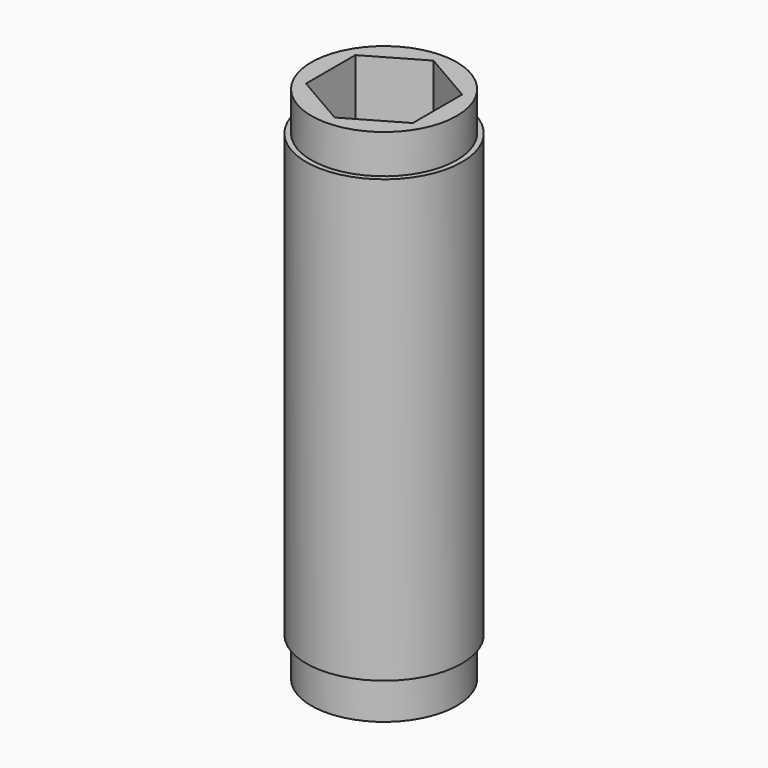
from build123d import *

# Parameters (mm, degrees)
F1_DEPTH = 400
F2_R     = 91.560729
F2_R_2   = 60
F3_DEPTH = 400.001
F4_R     = 159.326425
F4_R_2   = 56
F5_DEPTH = 30
F6_R     = 72.9435
F6_R_2   = 56
F7_DEPTH = 30


with BuildPart() as f1:
    # F0 (on Top) → F1 (new body)
    with BuildSketch(Plane.XY):
        Polygon((62.5, -36.084392), (62.5, 36.084392), (0, 72.168784), (-62.5, 36.084392), (-62.5, -36.084392), (0, -72.168784), align=None)
        Polygon((41.136207, 23.75), (41.136207, -23.75), (0, -47.5), (-41.136207, -23.75), (-41.136207, 23.75), (0, 47.5), align=None, mode=Mode.SUBTRACT)
    extrude(amount=F1_DEPTH)

    # F2 (on Top) → F3 (cut, through all)
    with BuildSketch(Plane.XY):
        Circle(F2_R)
        Circle(F2_R_2, mode=Mode.SUBTRACT)
    extrude(amount=F3_DEPTH, mode=Mode.SUBTRACT)

    # F4 (on Top) → F5 (cut)
    with BuildSketch(Plane.XY):
        Circle(F4_R)
        Circle(F4_R_2, mode=Mode.SUBTRACT)
    extrude(amount=F5_DEPTH, mode=Mode.SUBTRACT)

    # F6 (on face) → F7 (cut)
    with BuildSketch(Plane.XY.offset(400)):
        Circle(F6_R)
        Circle(F6_R_2, mode=Mode.SUBTRACT)
    extrude(amount=-F7_DEPTH, mode=Mode.SUBTRACT)


solid = f1.part
